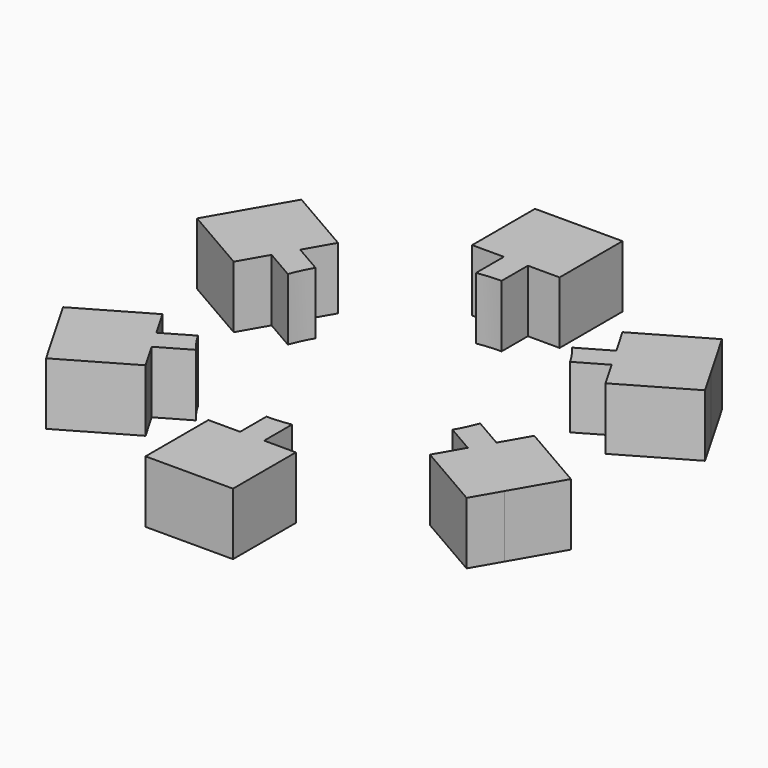
from build123d import *

# Parameters (mm, degrees)
F1_DEPTH = 6


with BuildPart() as f1:
    # F0 (on Top) → F1 (new body)
    with BuildSketch(Plane.XY):
        with BuildLine():
            ThreePointArc((-2.319065, 14.009352), (-1.163444, 14.152258), (0, 14.2))
            Line((0, 14.2), (0, 17.374434))
            Line((0, 17.374434), (3.066, 17.374434))
            Line((3.066, 17.374434), (3.066078, 24.966624))
            Line((3.066078, 24.966624), (0, 24.966624))
            Line((0, 24.966624), (-5.385065, 24.966624))
            Line((-5.385065, 24.966624), (-5.385065, 17.374434))
            Line((-5.385065, 17.374434), (-2.319065, 17.374434))
            Line((-2.319065, 17.374434), (-2.319065, 14.009352))
        make_face()
        with BuildLine():
            ThreePointArc((10.972922, 9.013045), (11.674492, 8.083701), (12.297561, 7.1))
            Line((12.297561, 7.1), (15.046701, 8.687217))
            Line((15.046701, 8.687217), (16.579701, 6.031983))
            Line((16.579701, 6.031983), (23.154769, 9.828011))
            Line((23.154769, 9.828011), (21.62173, 12.483312))
            Line((21.62173, 12.483312), (18.929198, 17.146915))
            Line((18.929198, 17.146915), (12.354168, 13.35082))
            Line((12.354168, 13.35082), (13.887168, 10.695586))
            Line((13.887168, 10.695586), (10.972922, 9.013045))
        make_face()
        with BuildLine():
            Line((16.206234, -6.678847), (13.291987, -4.996306))
            ThreePointArc((13.291987, -4.996306), (12.837937, -6.068556), (12.297561, -7.1))
            Line((12.297561, -7.1), (15.046701, -8.687217))
            Line((15.046701, -8.687217), (13.513701, -11.342451))
            Line((13.513701, -11.342451), (20.088691, -15.138613))
            Line((20.088691, -15.138613), (21.62173, -12.483312))
            Line((21.62173, -12.483312), (24.314263, -7.819708))
            Line((24.314263, -7.819708), (17.739234, -4.023613))
            Line((17.739234, -4.023613), (16.206234, -6.678847))
        make_face()
        with BuildLine():
            Line((2.319065, -17.374434), (2.319065, -14.009352))
            ThreePointArc((2.319065, -14.009352), (1.163444, -14.152258), (0, -14.2))
            Line((0, -14.2), (0, -17.374434))
            Line((0, -17.374434), (-3.066, -17.374434))
            Line((-3.066, -17.374434), (-3.066078, -24.966624))
            Line((-3.066078, -24.966624), (0, -24.966624))
            Line((0, -24.966624), (5.385065, -24.966624))
            Line((5.385065, -24.966624), (5.385065, -17.374434))
            Line((5.385065, -17.374434), (2.319065, -17.374434))
        make_face()
        with BuildLine():
            Line((-13.887168, -10.695586), (-10.972922, -9.013045))
            ThreePointArc((-10.972922, -9.013045), (-11.674492, -8.083701), (-12.297561, -7.1))
            Line((-12.297561, -7.1), (-15.046701, -8.687217))
            Line((-15.046701, -8.687217), (-16.579701, -6.031983))
            Line((-16.579701, -6.031983), (-23.154769, -9.828011))
            Line((-23.154769, -9.828011), (-21.62173, -12.483312))
            Line((-21.62173, -12.483312), (-18.929198, -17.146915))
            Line((-18.929198, -17.146915), (-12.354168, -13.35082))
            Line((-12.354168, -13.35082), (-13.887168, -10.695586))
        make_face()
        with BuildLine():
            ThreePointArc((-13.291987, 4.996306), (-12.837937, 6.068556), (-12.297561, 7.1))
            Line((-12.297561, 7.1), (-15.046701, 8.687217))
            Line((-15.046701, 8.687217), (-13.513701, 11.342451))
            Line((-13.513701, 11.342451), (-20.088691, 15.138613))
            Line((-20.088691, 15.138613), (-21.62173, 12.483312))
            Line((-21.62173, 12.483312), (-24.314263, 7.819708))
            Line((-24.314263, 7.819708), (-17.739234, 4.023613))
            Line((-17.739234, 4.023613), (-16.206234, 6.678847))
            Line((-16.206234, 6.678847), (-13.291987, 4.996306))
        make_face()
    extrude(amount=F1_DEPTH)


solid = f1.part
